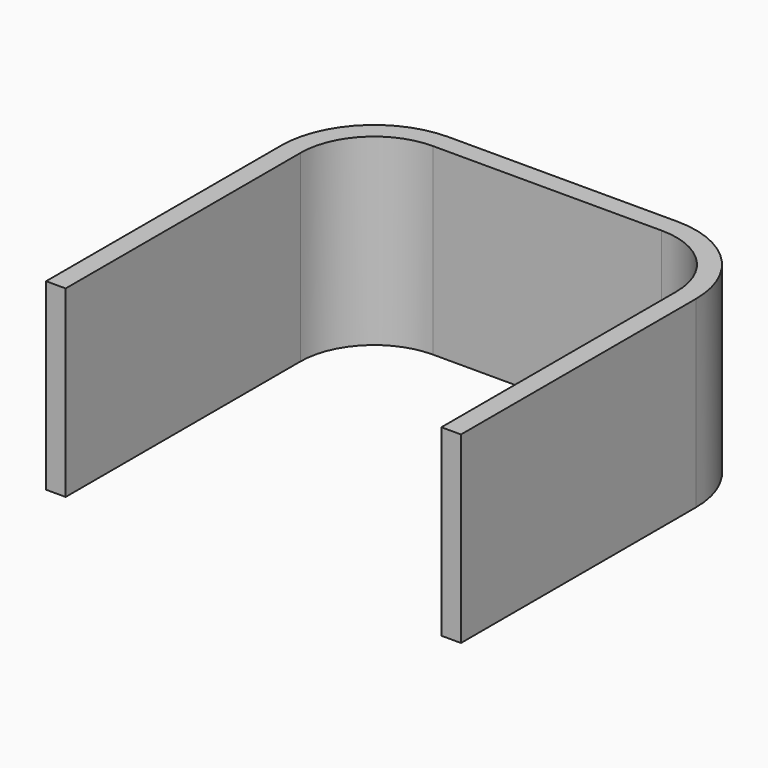
from build123d import *

# Parameters (mm, degrees)
F1_DEPTH = 15
F2_R     = 6
F3_R     = 7.6


with BuildPart() as f1:
    # F0 (on Top) → F1 (new body)
    with BuildSketch(Plane.XY):
        Polygon((-16.95, -15.8), (-15.35, -15.8), (-15.35, 14.2), (15.35, 14.2), (15.35, -15.8), (16.95, -15.8), (16.95, 15.8), (-16.95, 15.8), align=None)
    extrude(amount=F1_DEPTH)

    # F2
    f2_edges = [f1.edges().sort_by_distance(p)[0] for p in [
        (-15.35, 14.2, 7.5),
        (15.35, 14.2, 7.5),
    ]]
    fillet(f2_edges, radius=F2_R)

    # F3
    f3_edges = [f1.edges().sort_by_distance(p)[0] for p in [
        (-16.95, 15.8, 7.5),
        (16.95, 15.8, 7.5),
    ]]
    fillet(f3_edges, radius=F3_R)


solid = f1.part
